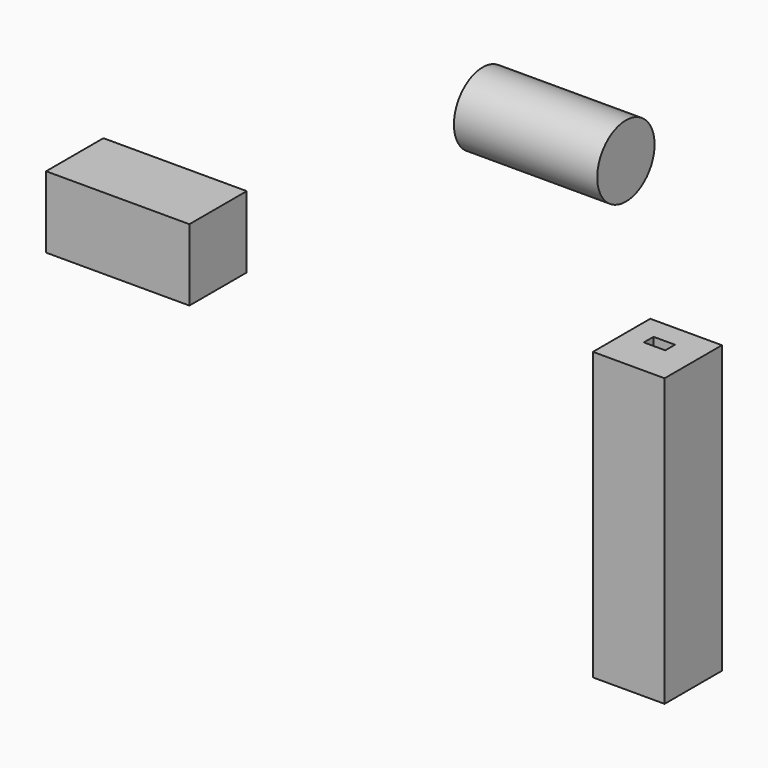
from build123d import *

# Parameters (mm, degrees)
F0_W     = 50.8
F0_H     = 25.4
F1_DEPTH = 25.4
F2_W     = 25.4
F2_H     = 25.4
F2_W_2   = 7.600162
F2_H_2   = 4.301813
F3_DEPTH = 101.6
F4_R     = 12.7
F5_DEPTH = 25.4
F6_DEPTH = 25.4


with BuildPart() as f1:
    # F0 (on Front) → F1 (new body)
    with BuildSketch(Plane.XZ):
        with Locations((-104.015551, 2.367632)):
            Rectangle(F0_W, F0_H)
    extrude(amount=F1_DEPTH)


with BuildPart() as f3:
    # F2 (on Top) → F3 (new body)
    with BuildSketch(Plane.XY):
        with Locations((51.004363, 19.9357)):
            Rectangle(F2_W, F2_H)
        with Locations((49.584674, 22.593917)):
            Rectangle(F2_W_2, F2_H_2, mode=Mode.SUBTRACT)
    extrude(amount=-F3_DEPTH)


with BuildPart() as f5:
    # F4 (on Right) → F5 (new body)
    with BuildSketch(Plane.YZ):
        with Locations((37.975639, 42.87371)):
            Circle(F4_R)
    extrude(amount=F5_DEPTH)

    # F4 (on Right) → F6 (join)
    with BuildSketch(Plane.YZ):
        with Locations((37.975639, 42.87371)):
            Circle(F4_R)
    extrude(amount=-F6_DEPTH)


solid = Compound([f1.part, f3.part, f5.part])
